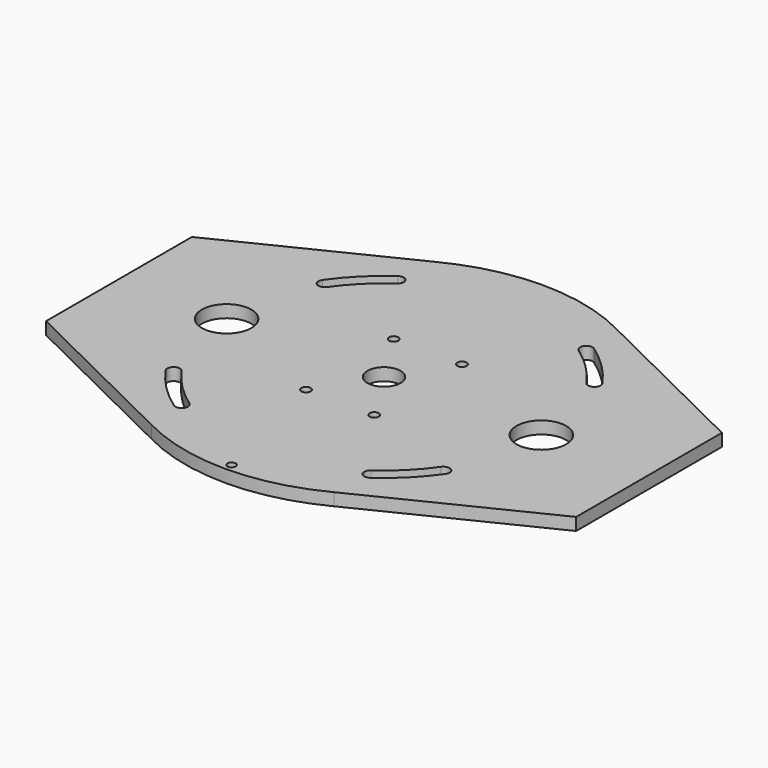
from build123d import *

# Parameters (mm, degrees)
F0_R     = 6.35
F0_R_2   = 38.1
F0_R_3   = 25.4
F1_DEPTH = 19.05
F3_D     = 14.351


with BuildPart() as f1:
    # F0 (on Top) → F1 (new body)
    with BuildSketch(Plane.XY):
        with BuildLine():
            ThreePointArc((139.699996, -270.900261), (260.272548, -158.622951), (304.8, 0))
            ThreePointArc((304.8, 0), (260.272548, 158.622951), (139.699996, 270.900261))
            ThreePointArc((139.699996, 270.900261), (0, 304.8), (-139.699996, 270.900261))
            ThreePointArc((-139.699996, 270.900261), (-304.8, 0), (-139.699996, -270.900261))
            ThreePointArc((-139.699996, -270.900261), (0, -304.8), (139.699996, -270.900261))
        make_face()
        with Locations((0, -292.1)):
            Circle(F0_R, mode=Mode.SUBTRACT)
        with BuildLine():
            ThreePointArc((-214.701881, -150.335875), (-212.337822, -136.928635), (-198.930582, -139.292693))
            ThreePointArc((-198.930582, -139.292693), (-171.720458, -171.720458), (-139.292693, -198.930582))
            ThreePointArc((-139.292693, -198.930582), (-136.928635, -212.337822), (-150.335875, -214.701881))
            ThreePointArc((-150.335875, -214.701881), (-185.334526, -185.334526), (-214.701881, -150.335875))
        make_face(mode=Mode.SUBTRACT)
        with BuildLine():
            ThreePointArc((198.930582, -139.292693), (212.337822, -136.928635), (214.701881, -150.335875))
            ThreePointArc((214.701881, -150.335875), (185.334526, -185.334526), (150.335875, -214.701881))
            ThreePointArc((150.335875, -214.701881), (136.928635, -212.337822), (139.292693, -198.930582))
            ThreePointArc((139.292693, -198.930582), (171.720458, -171.720458), (198.930582, -139.292693))
        make_face(mode=Mode.SUBTRACT)
        with Locations((-241.3, 0)):
            Circle(F0_R_2, mode=Mode.SUBTRACT)
        Circle(F0_R_3, mode=Mode.SUBTRACT)
        with BuildLine():
            ThreePointArc((-198.930582, 139.292693), (-212.337822, 136.928635), (-214.701881, 150.335875))
            ThreePointArc((-214.701881, 150.335875), (-185.334526, 185.334526), (-150.335875, 214.701881))
            ThreePointArc((-150.335875, 214.701881), (-136.928635, 212.337822), (-139.292693, 198.930582))
            ThreePointArc((-139.292693, 198.930582), (-171.720458, 171.720458), (-198.930582, 139.292693))
        make_face(mode=Mode.SUBTRACT)
        with Locations((241.3, 0)):
            Circle(F0_R_2, mode=Mode.SUBTRACT)
        with BuildLine():
            ThreePointArc((139.292693, 198.930582), (136.928635, 212.337822), (150.335875, 214.701881))
            ThreePointArc((150.335875, 214.701881), (185.334526, 185.334526), (214.701881, 150.335875))
            ThreePointArc((214.701881, 150.335875), (212.337822, 136.928635), (198.930582, 139.292693))
            ThreePointArc((198.930582, 139.292693), (171.720458, 171.720458), (139.292693, 198.930582))
        make_face(mode=Mode.SUBTRACT)
        with BuildLine():
            ThreePointArc((-139.699996, -270.900261), (-304.8, 0), (-139.699996, 270.900261))
            Line((-139.699996, 270.900261), (-406.4, 139.7))
            Line((-406.4, 139.7), (-406.4, -139.7))
            Line((-406.4, -139.7), (-139.699996, -270.900261))
        make_face()
        with BuildLine():
            ThreePointArc((139.699996, 270.900261), (260.272548, 158.622951), (304.8, 0))
            ThreePointArc((304.8, 0), (260.272548, -158.622951), (139.699996, -270.900261))
            Line((139.699996, -270.900261), (406.4, -139.7))
            Line((406.4, -139.7), (406.4, 139.7))
            Line((406.4, 139.7), (139.699996, 270.900261))
        make_face()
    extrude(amount=F1_DEPTH)

    # F3 (through all)
    with Locations(Plane.XY.offset(19.05)):
        with Locations((-52.3875, 84.1375), (-52.3875, -84.1375), (52.3875, -84.1375), (52.3875, 84.1375)):
            Hole(F3_D / 2)


solid = f1.part
